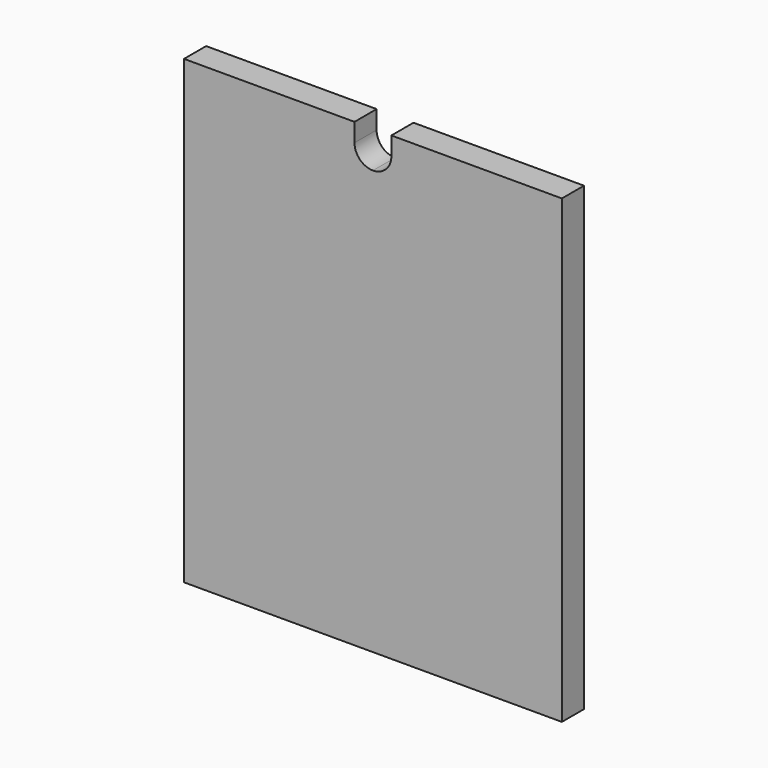
from build123d import *

# Parameters (mm, degrees)
F1_DEPTH = 19.05


with BuildPart() as f1:
    # F0 (on Front) → F1 (new body)
    with BuildSketch(Plane.XZ):
        with BuildLine():
            Line((-12.7, 158.75), (-130.175, 158.75))
            Line((-130.175, 158.75), (-130.175, -158.75))
            Line((-130.175, -158.75), (130.175, -158.75))
            Line((130.175, -158.75), (130.175, 158.75))
            Line((130.175, 158.75), (12.7, 158.75))
            Line((12.7, 158.75), (12.7, 146.05))
            ThreePointArc((12.7, 146.05), (8.980256, 137.069744), (0, 133.35))
            ThreePointArc((0, 133.35), (-8.980256, 137.069744), (-12.7, 146.05))
            Line((-12.7, 146.05), (-12.7, 158.75))
        make_face()
    extrude(amount=F1_DEPTH)


solid = f1.part
